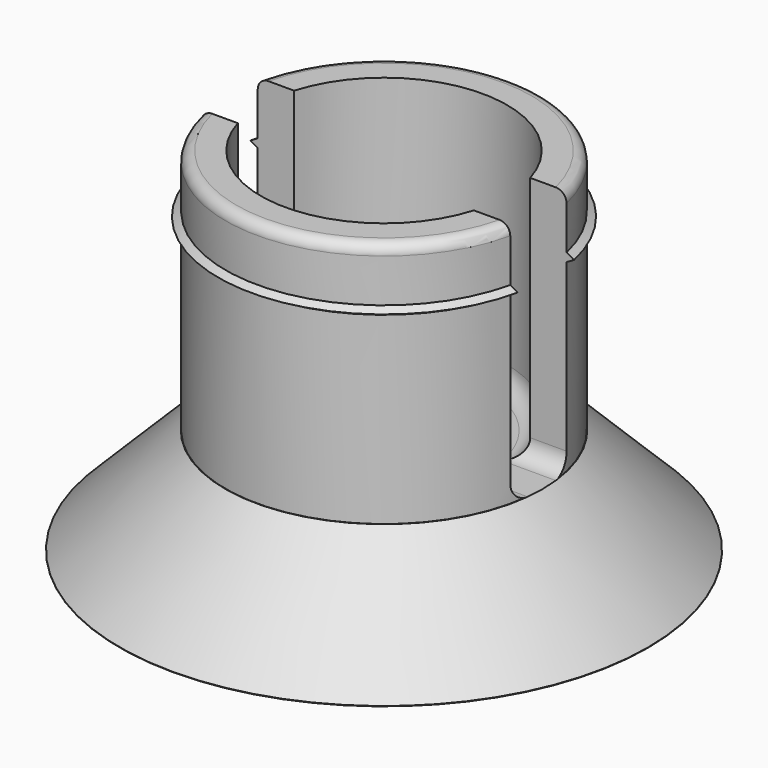
from build123d import *

# Parameters (mm, degrees)
SKETCH_R     = 4.5
SKETCH_R_2   = 3.5
PAD_DEPTH    = 10
SKETCH001_R  = 7.5
PAD001_DEPTH = 3
CHAMFER_SIZE = 2.99
SKETCH003_W  = 2
SKETCH003_H  = 10
POCKET_DEPTH = 6
FILLET_R     = 0.5
FILLET001_R  = 0.3


with BuildPart() as part:
    # Sketch (on XY_Plane of Origin) → Pad (new body)
    with BuildSketch(Plane.XY):
        Circle(SKETCH_R)
        Circle(SKETCH_R_2, mode=Mode.SUBTRACT)
    extrude(amount=PAD_DEPTH)

    # Sketch001 (on XY_Plane of Origin) → Pad001 (join)
    with BuildSketch(Plane.XY):
        Circle(SKETCH001_R)
    extrude(amount=PAD001_DEPTH)

    # Chamfer
    chamfer_edges = [part.edges().sort_by_distance(p)[0] for p in [
        (-7.5, 0, 3),
    ]]
    chamfer(chamfer_edges, length=CHAMFER_SIZE)

    # Sketch002 (on YZ_Plane of Origin) → Revolution (revolve)
    with BuildSketch(Plane.YZ):
        Polygon((4.1, 8.7), (4.706218, 8.35), (4.1, 8), align=None)
    revolve(axis=Axis((0, 0, 0), (0, 0, 1)))

    # Sketch003 (on YZ_Plane of Origin) → Pocket (cut, symmetric)
    with BuildSketch(Plane.YZ):
        with Locations((0, 8)):
            Rectangle(SKETCH003_W, SKETCH003_H)
    extrude(amount=POCKET_DEPTH, both=True, mode=Mode.SUBTRACT)

    # Fillet
    fillet_edges = [part.edges().sort_by_distance(p)[0] for p in [
        (0, -3.5, 3),
        (0, 3.5, 3),
        (3.870792, 1, 3),
        (-3.870792, 1, 3),
        (3.870792, -1, 3),
        (-3.870792, -1, 3),
    ]]
    fillet(fillet_edges, radius=FILLET_R)

    # Fillet001
    fillet001_edges = [part.edges().sort_by_distance(p)[0] for p in [
        (0, 4.5, 10),
        (0, -4.5, 10),
    ]]
    fillet(fillet001_edges, radius=FILLET001_R)


solid = part.part
